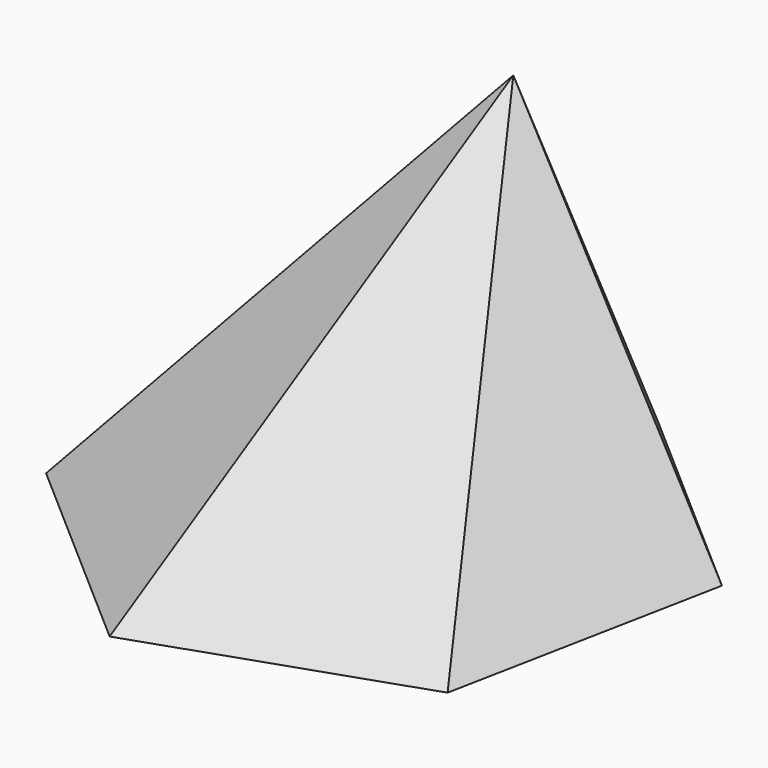
from build123d import *


with BuildPart() as f3:
    # F0 (on Top) → F3 section 0
    with BuildSketch(Plane.XY, mode=Mode.PRIVATE) as f3_s0:
        Polygon((96.6555408567, -84.4560605651), (121.4688643813, 41.4781235158), (24.8133235246, 125.934184081), (-96.6555408567, 84.4560605651), (-121.4688643813, -41.4781235158), (-24.8133235246, -125.934184081), align=None)
    loft([f3_s0.sketch, Vertex(-0.6229336141, 74.7461542487, 152.4)])


solid = f3.part
